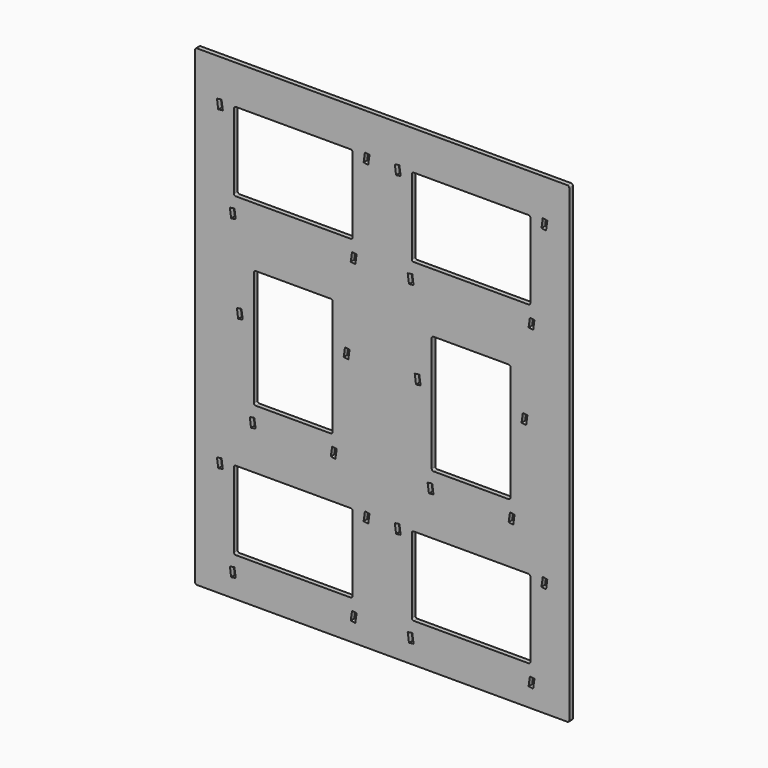
from build123d import *

# Parameters (mm, degrees)
F0_W     = 404
F0_H     = 510
F0_W_2   = 84.9999959469
F0_H_2   = 127.9999959469
F0_W_3   = 128
F0_H_3   = 85
F0_W_4   = 128.0000081062
F0_H_4   = 85.0000081062
F0_W_5   = 85
F0_H_5   = 128
F1_DEPTH = 5
F2_R     = 2


with BuildPart() as f1:
    # F0 (on Front) → F1 (new body)
    with BuildSketch(Plane.XZ):
        with Locations((202, 255)):
            Rectangle(F0_W, F0_H)
        Polygon((37.5742387427, 29.3041344952), (42.5255790864, 30), (43.917310096, 20.0973193126), (38.9659697523, 19.4014538078), align=None, mode=Mode.SUBTRACT)
        Polygon((28.6082689904, 129.0268068742), (30, 119.1241261867), (25.0486596563, 118.4282606819), (23.6569286467, 128.3309413694), align=None, mode=Mode.SUBTRACT)
        Polygon((168.082689904, 20.0973193126), (169.4744209136, 30), (174.4257612573, 29.3041344952), (173.0340302477, 19.4014538078), align=None, mode=Mode.SUBTRACT)
        Polygon((42.5255790864, 30), (30, 30), (30, 119.1241261867), (30, 139), (182, 139), (182, 119.1241261867), (182, 30), (169.4744209136, 30), align=None, mode=Mode.SUBTRACT)
        Polygon((186.9513403437, 118.4282606819), (182, 119.1241261867), (183.3917310096, 129.0268068742), (188.3430713533, 128.3309413694), align=None, mode=Mode.SUBTRACT)
        Polygon((59.0742387427, 178.3041344952), (64.0255790864, 179), (65.417310096, 169.0973193126), (60.4659697523, 168.4014538078), align=None, mode=Mode.SUBTRACT)
        Polygon((146.582689904, 169.0973193126), (147.9744209136, 179), (152.9257612573, 178.3041344952), (151.5340302477, 168.4014538078), align=None, mode=Mode.SUBTRACT)
        Polygon((229.5742387427, 29.3041344952), (234.5255790864, 30), (235.917310096, 20.0973193126), (230.9659697523, 19.4014538078), align=None, mode=Mode.SUBTRACT)
        Polygon((220.6082689904, 129.0268068742), (222, 119.1241261867), (217.0486596563, 118.4282606819), (215.6569286467, 128.3309413694), align=None, mode=Mode.SUBTRACT)
        Polygon((234.5255790864, 30), (222, 30), (222, 119.1241261867), (222, 139), (374, 139), (374, 119.1241261867), (374, 30), (361.4744209136, 30), align=None, mode=Mode.SUBTRACT)
        Polygon((360.082689904, 20.0973193126), (361.4744209136, 30), (366.4257612573, 29.3041344952), (365.0340302477, 19.4014538078), align=None, mode=Mode.SUBTRACT)
        Polygon((378.9513403437, 118.4282606819), (374, 119.1241261867), (375.3917310096, 129.0268068742), (380.3430713533, 128.3309413694), align=None, mode=Mode.SUBTRACT)
        Polygon((251.0742387427, 178.3041344952), (256.0255790864, 179), (257.417310096, 169.0973193126), (252.4659697523, 168.4014538078), align=None, mode=Mode.SUBTRACT)
        Polygon((338.582689904, 169.0973193126), (339.9744209136, 179), (344.9257612573, 178.3041344952), (343.5340302477, 168.4014538078), align=None, mode=Mode.SUBTRACT)
        Polygon((50.1082689904, 278.0268068742), (51.5, 268.1241261867), (46.5486596563, 267.4282606819), (45.1569286467, 277.3309413694), align=None, mode=Mode.SUBTRACT)
        Polygon((37.5742387427, 370.3041344952), (42.5255790864, 371), (43.917310096, 361.0973193126), (38.9659697523, 360.4014538078), align=None, mode=Mode.SUBTRACT)
        Polygon((64.0255790864, 179), (51.5, 179), (51.5, 268.1241261867), (51.5, 331), (160.5, 331), (160.5, 268.1241261867), (160.5, 179), (147.9744209136, 179), align=None, mode=Mode.SUBTRACT)
        Polygon((165.4513403437, 267.4282606819), (160.5, 268.1241261867), (161.8917310096, 278.0268068742), (166.8430713533, 277.3309413694), align=None, mode=Mode.SUBTRACT)
        Polygon((168.082689904, 361.0973193126), (169.4744209136, 371), (174.4257612573, 370.3041344952), (173.0340302477, 360.4014538078), align=None, mode=Mode.SUBTRACT)
        Polygon((28.6082689904, 470.0268068742), (30, 460.1241261867), (25.0486596563, 459.4282606819), (23.6569286467, 469.3309413694), align=None, mode=Mode.SUBTRACT)
        Polygon((42.5255790864, 371), (30, 371), (30, 460.1241261867), (30, 480), (182, 480), (182, 460.1241261867), (182, 371), (169.4744209136, 371), align=None, mode=Mode.SUBTRACT)
        Polygon((186.9513403437, 459.4282606819), (182, 460.1241261867), (183.3917310096, 470.0268068742), (188.3430713533, 469.3309413694), align=None, mode=Mode.SUBTRACT)
        Polygon((242.1082689904, 278.0268068742), (243.5, 268.1241261867), (238.5486596563, 267.4282606819), (237.1569286467, 277.3309413694), align=None, mode=Mode.SUBTRACT)
        Polygon((256.0255790864, 179), (243.5, 179), (243.5, 268.1241261867), (243.5, 331), (352.5, 331), (352.5, 268.1241261867), (352.5, 179), (339.9744209136, 179), align=None, mode=Mode.SUBTRACT)
        Polygon((229.5742387427, 370.3041344952), (234.5255790864, 371), (235.917310096, 361.0973193126), (230.9659697523, 360.4014538078), align=None, mode=Mode.SUBTRACT)
        Polygon((357.4513403437, 267.4282606819), (352.5, 268.1241261867), (353.8917310096, 278.0268068742), (358.8430713533, 277.3309413694), align=None, mode=Mode.SUBTRACT)
        Polygon((360.082689904, 361.0973193126), (361.4744209136, 371), (366.4257612573, 370.3041344952), (365.0340302477, 360.4014538078), align=None, mode=Mode.SUBTRACT)
        Polygon((234.5255790864, 371), (222, 371), (222, 460.1241261867), (222, 480), (374, 480), (374, 460.1241261867), (374, 371), (361.4744209136, 371), align=None, mode=Mode.SUBTRACT)
        Polygon((220.6082689904, 470.0268068742), (222, 460.1241261867), (217.0486596563, 459.4282606819), (215.6569286467, 469.3309413694), align=None, mode=Mode.SUBTRACT)
        Polygon((378.9513403437, 459.4282606819), (374, 460.1241261867), (375.3917310096, 470.0268068742), (380.3430713533, 469.3309413694), align=None, mode=Mode.SUBTRACT)
        Polygon((51.5, 268.1241261867), (51.5, 179), (64.0255790864, 179), (147.9744209136, 179), (160.5, 179), (160.5, 268.1241261867), (160.5, 331), (51.5, 331), align=None)
        with Locations((106, 255)):
            Rectangle(F0_W_2, F0_H_2, mode=Mode.SUBTRACT)
        Polygon((30, 119.1241261867), (30, 30), (42.5255790864, 30), (169.4744209136, 30), (182, 30), (182, 119.1241261867), (182, 139), (30, 139), align=None)
        with Locations((106, 84.5)):
            Rectangle(F0_W_3, F0_H_3, mode=Mode.SUBTRACT)
        Polygon((222, 119.1241261867), (222, 30), (234.5255790864, 30), (361.4744209136, 30), (374, 30), (374, 119.1241261867), (374, 139), (222, 139), align=None)
        with Locations((298, 84.5)):
            Rectangle(F0_W_4, F0_H_4, mode=Mode.SUBTRACT)
        Polygon((243.5, 268.1241261867), (243.5, 179), (256.0255790864, 179), (339.9744209136, 179), (352.5, 179), (352.5, 268.1241261867), (352.5, 331), (243.5, 331), align=None)
        with Locations((298, 255)):
            Rectangle(F0_W_5, F0_H_5, mode=Mode.SUBTRACT)
        Polygon((30, 460.1241261867), (30, 371), (42.5255790864, 371), (169.4744209136, 371), (182, 371), (182, 460.1241261867), (182, 480), (30, 480), align=None)
        with Locations((106, 425.5)):
            Rectangle(F0_W_3, F0_H_3, mode=Mode.SUBTRACT)
        Polygon((222, 460.1241261867), (222, 371), (234.5255790864, 371), (361.4744209136, 371), (374, 371), (374, 460.1241261867), (374, 480), (222, 480), align=None)
        with Locations((298, 425.5)):
            Rectangle(F0_W_3, F0_H_3, mode=Mode.SUBTRACT)
    extrude(amount=F1_DEPTH)

    # F2
    f2_edges = [f1.edges().sort_by_distance(p)[0] for p in [
        (0, -2.5, 510),
        (404, -2.5, 510),
        (0, -2.5, 0),
        (404, -2.5, 0),
        (233.999996, -2.5, 127.000004),
        (255.5, -2.5, 319),
        (63.500002, -2.5, 318.999998),
        (42, -2.5, 127),
        (234, -2.5, 468),
        (42, -2.5, 468),
        (170, -2.5, 468),
        (362, -2.5, 468),
        (340.5, -2.5, 319),
        (148.499998, -2.5, 318.999998),
        (170, -2.5, 127),
        (362.000004, -2.5, 127.000004),
        (362.000004, -2.5, 41.999996),
        (170, -2.5, 42),
        (148.499998, -2.5, 191.000002),
        (340.5, -2.5, 191),
        (170, -2.5, 383),
        (362, -2.5, 383),
        (42, -2.5, 42),
        (233.999996, -2.5, 41.999996),
        (255.5, -2.5, 191),
        (63.500002, -2.5, 191.000002),
        (42, -2.5, 383),
        (234, -2.5, 383),
    ]]
    fillet(f2_edges, radius=F2_R)


solid = f1.part
